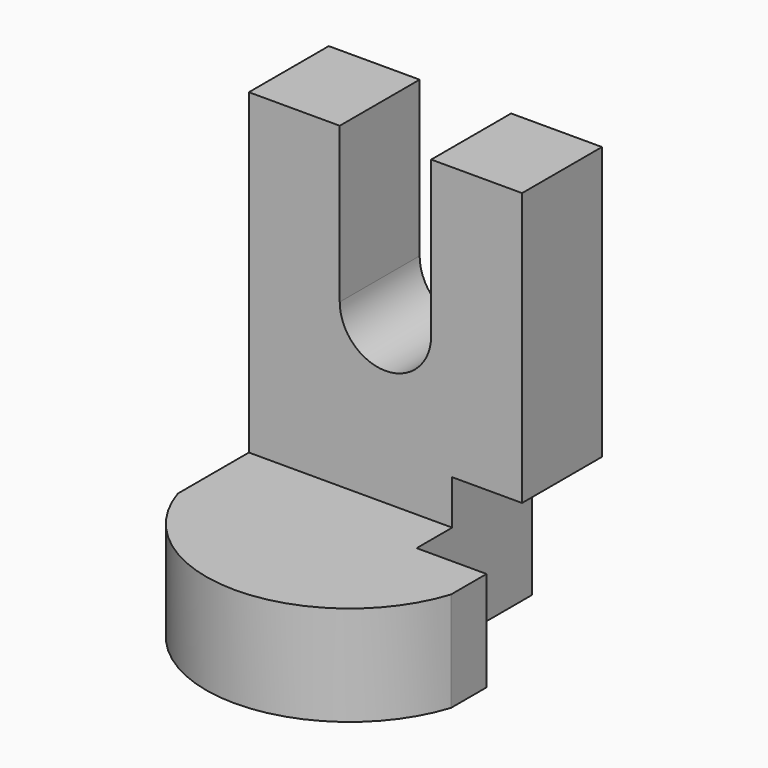
from build123d import *

# Parameters (mm, degrees)
F1_DEPTH = 12.7
F3_DEPTH = 12.7
F5_DEPTH = 8.89


with BuildPart() as f1:
    # F0 (on Top) → F1 (new body)
    with BuildSketch(Plane.XY):
        with BuildLine():
            Line((0, -23.996737), (0, 0))
            Line((0, 0), (-34.743212, 0))
            Line((-34.743212, 0), (-34.743212, -23.996737))
            ThreePointArc((-34.743212, -23.996737), (-17.371606, -36.657822), (0, -23.996737))
        make_face()
    extrude(amount=F1_DEPTH)

    # F2 (on Front) → F3 (join)
    with BuildSketch(Plane.XZ):
        with BuildLine():
            Line((-34.743212, 53.041197), (-34.743212, 12.7))
            Line((-34.743212, 12.7), (0, 12.7))
            Line((0, 12.7), (0, 53.041197))
            Line((0, 53.041197), (-11.554375, 53.041197))
            Line((-11.554375, 53.041197), (-11.554375, 33.313215))
            ThreePointArc((-11.554375, 33.313215), (-17.371606, 27.495984), (-23.188837, 33.313215))
            Line((-23.188837, 33.313215), (-23.188837, 53.041197))
            Line((-23.188837, 53.041197), (-34.743212, 53.041197))
        make_face()
    extrude(amount=F3_DEPTH)

    # F4 (on face) → F5 (cut)
    with BuildSketch(Plane.YZ):
        Polygon((-18.348368, 0), (0, 0), (0, 18.348368), (-12.7, 18.348368), (-12.7, 12.7), (-18.348368, 12.7), align=None)
    extrude(amount=-F5_DEPTH, mode=Mode.SUBTRACT)


solid = f1.part
